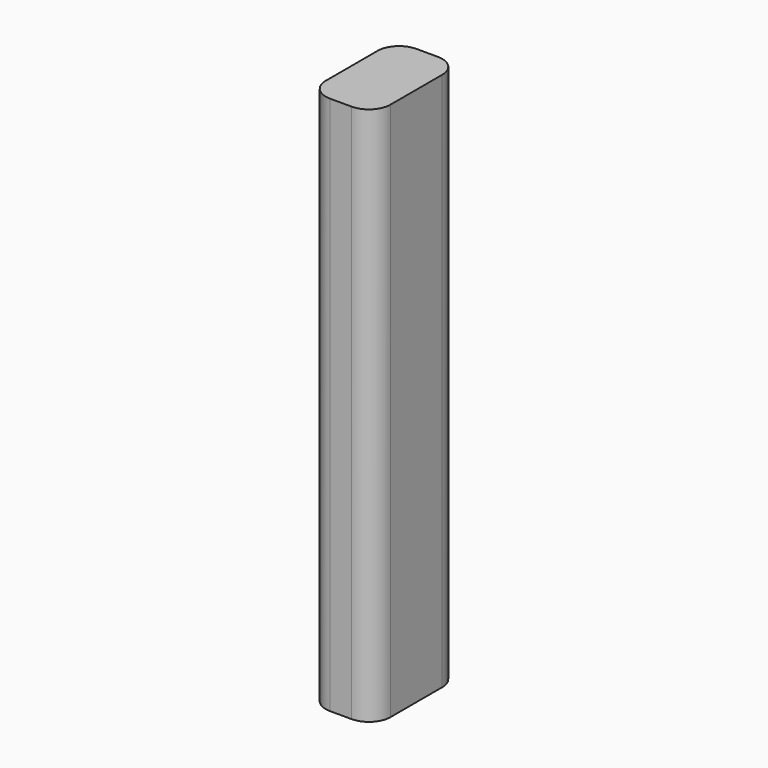
from build123d import *

# Parameters (mm, degrees)
F0_W     = 3
F0_H     = 5
F1_DEPTH = 25
F2_R     = 1


with BuildPart() as f1:
    # F0 (on Top) → F1 (new body)
    with BuildSketch(Plane.XY):
        with Locations((1.5, -2.5)):
            Rectangle(F0_W, F0_H)
        with Locations((1.5, -2.5)):
            Rectangle(F0_W, F0_H)
    extrude(amount=F1_DEPTH)

    # F2
    f2_edges = [f1.edges().sort_by_distance(p)[0] for p in [
        (0, 0, 12.5),
        (0, -5, 12.5),
        (3, -5, 12.5),
        (3, 0, 12.5),
    ]]
    fillet(f2_edges, radius=F2_R)


solid = f1.part
